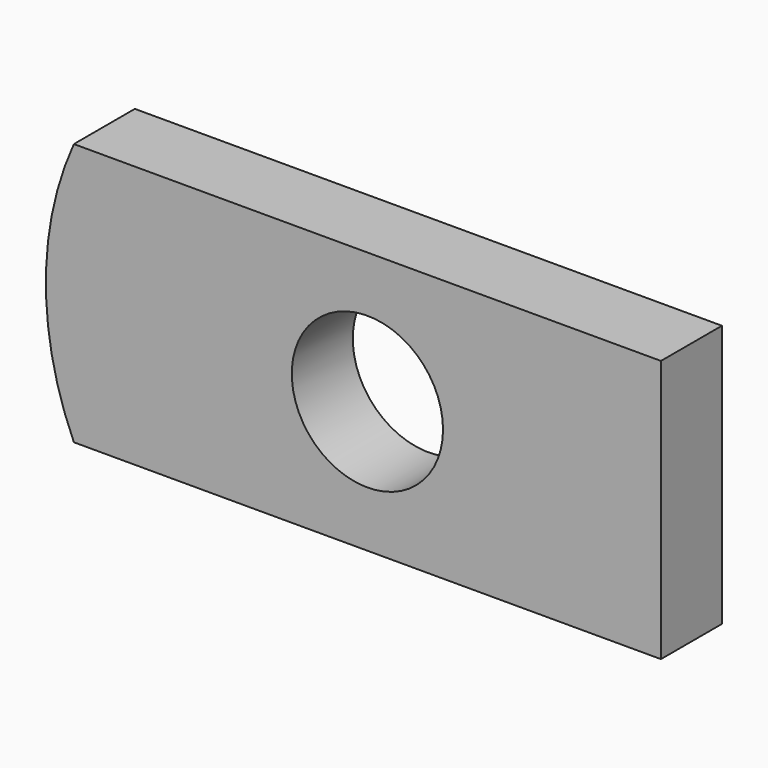
from build123d import *

# Parameters (mm, degrees)
F0_R     = 1.5875
F1_DEPTH = 0.8001


with BuildPart() as f1:
    # F0 (on Front) → F1 (new body, symmetric)
    with BuildSketch(Plane.XZ):
        with BuildLine():
            Line((6.240089, 2.755591), (-6.083732, 2.755591))
            ThreePointArc((-6.083732, 2.755591), (-6.671816, 0), (-6.083732, -2.755591))
            Line((-6.083732, -2.755591), (6.240089, -2.755591))
            Line((6.240089, -2.755591), (6.240089, 2.755591))
        make_face()
        with Locations((0.078179, 0)):
            Circle(F0_R, mode=Mode.SUBTRACT)
    extrude(amount=F1_DEPTH, both=True)


solid = f1.part
